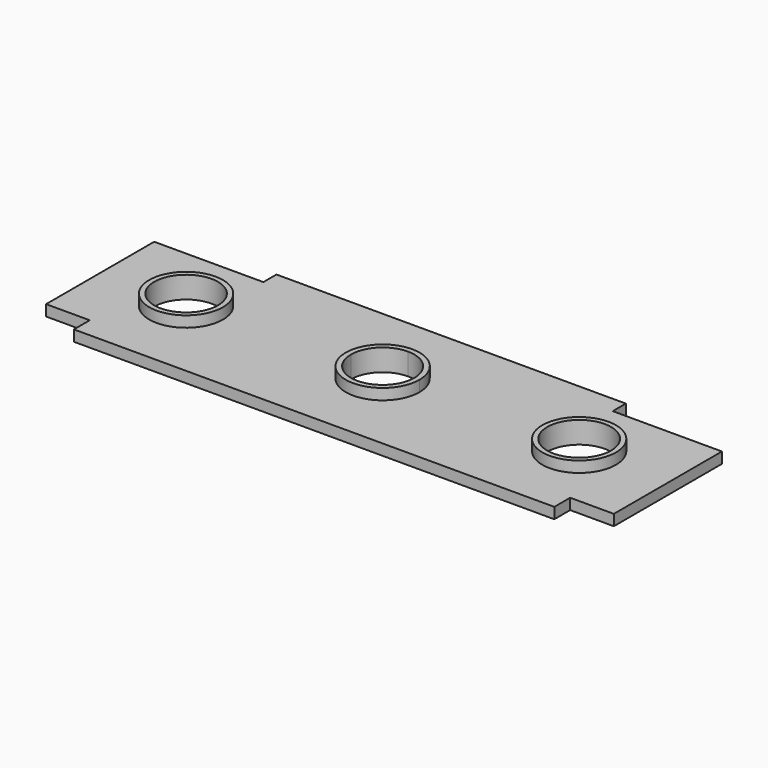
from build123d import *

# Parameters (mm, degrees)
F0_R     = 85.725
F1_DEPTH = 25.4
F0_R_2   = 74.1873427713
F2_DEPTH = 50.8
F3_DEPTH = 50.8
F4_DEPTH = 50.8


with BuildPart() as f1:
    # F0 (on Top) → F1 (new body)
    with BuildSketch(Plane.XY):
        with BuildLine():
            Line((193.6448768675, 306.0437094688), (-60.3551231325, 306.0437094688))
            Line((-60.3551231325, 306.0437094688), (-60.3551231325, -8.2812905312))
            Line((-60.3551231325, -8.2812905312), (41.2448768675, -8.2812905312))
            Line((41.2448768675, -8.2812905312), (41.2448768675, -54.3187905312))
            Line((41.2448768675, -54.3187905312), (600.0448768675, -54.3187905312))
            Line((600.0448768675, -54.3187905312), (600.0448768675, 59.1874594688))
            ThreePointArc((600.0448768675, 59.1874594688), (539.4281480503, 84.2957306516), (514.3198768675, 144.9124594688))
            ThreePointArc((514.3198768675, 144.9124594688), (539.4281480503, 205.5291882861), (600.0448768675, 230.6374594688))
            Line((600.0448768675, 230.6374594688), (600.0448768675, 344.1437094688))
            Line((600.0448768675, 344.1437094688), (193.6448768675, 344.1437094688))
            Line((193.6448768675, 344.1437094688), (193.6448768675, 306.0437094688))
        make_face()
        with Locations((142.8448768675, 144.9124594688)):
            Circle(F0_R, mode=Mode.SUBTRACT)
        with BuildLine():
            Line((1006.4448768675, 344.1437094688), (600.0448768675, 344.1437094688))
            Line((600.0448768675, 344.1437094688), (600.0448768675, 230.6374594688))
            ThreePointArc((600.0448768675, 230.6374594688), (660.6616056848, 205.5291882861), (685.7698768675, 144.9124594688))
            ThreePointArc((685.7698768675, 144.9124594688), (660.6616056848, 84.2957306516), (600.0448768675, 59.1874594688))
            Line((600.0448768675, 59.1874594688), (600.0448768675, -54.3187905312))
            Line((600.0448768675, -54.3187905312), (1158.8448768675, -54.3187905312))
            Line((1158.8448768675, -54.3187905312), (1158.8448768675, -8.2812905312))
            Line((1158.8448768675, -8.2812905312), (1260.4448768675, -8.2812905312))
            Line((1260.4448768675, -8.2812905312), (1260.4448768675, 306.0437094688))
            Line((1260.4448768675, 306.0437094688), (1006.4448768675, 306.0437094688))
            Line((1006.4448768675, 306.0437094688), (1006.4448768675, 344.1437094688))
        make_face()
        with BuildLine():
            ThreePointArc((1142.9698768675, 144.9124594688), (1057.2448768675, 59.1874594688), (971.5198768675, 144.9124594688))
            ThreePointArc((971.5198768675, 144.9124594688), (1057.2448768675, 230.6374594688), (1142.9698768675, 144.9124594688))
        make_face(mode=Mode.SUBTRACT)
    extrude(amount=F1_DEPTH)

    # F0 (on Top) → F2 (join)
    with BuildSketch(Plane.XY):
        with Locations((142.8448768675, 144.9124594688)):
            Circle(F0_R)
        with Locations((142.8448768675, 144.9124594688)):
            Circle(F0_R_2, mode=Mode.SUBTRACT)
    extrude(amount=F2_DEPTH)

    # F0 (on Top) → F3 (join)
    with BuildSketch(Plane.XY):
        with BuildLine():
            Line((600.0448768675, 71.2306225134), (600.0448768675, 59.1874594688))
            ThreePointArc((600.0448768675, 59.1874594688), (660.6616056848, 84.2957306516), (685.7698768675, 144.9124594688))
            Line((685.7698768675, 144.9124594688), (673.726713823, 144.9124594688))
            ThreePointArc((673.726713823, 144.9124594688), (652.145803429, 92.8115329074), (600.0448768675, 71.2306225134))
        make_face()
        with BuildLine():
            ThreePointArc((685.7698768675, 144.9124594688), (660.6616056848, 205.5291882861), (600.0448768675, 230.6374594688))
            Line((600.0448768675, 230.6374594688), (600.0448768675, 218.5942964243))
            ThreePointArc((600.0448768675, 218.5942964243), (652.145803429, 197.0133860303), (673.726713823, 144.9124594688))
            Line((673.726713823, 144.9124594688), (685.7698768675, 144.9124594688))
        make_face()
        with BuildLine():
            Line((600.0448768675, 218.5942964243), (600.0448768675, 230.6374594688))
            ThreePointArc((600.0448768675, 230.6374594688), (539.4281480503, 205.5291882861), (514.3198768675, 144.9124594688))
            Line((514.3198768675, 144.9124594688), (526.3630399121, 144.9124594688))
            ThreePointArc((526.3630399121, 144.9124594688), (547.9439503061, 197.0133860303), (600.0448768675, 218.5942964243))
        make_face()
        with BuildLine():
            ThreePointArc((514.3198768675, 144.9124594688), (539.4281480503, 84.2957306516), (600.0448768675, 59.1874594688))
            Line((600.0448768675, 59.1874594688), (600.0448768675, 71.2306225134))
            ThreePointArc((600.0448768675, 71.2306225134), (547.9439503061, 92.8115329074), (526.3630399121, 144.9124594688))
            Line((526.3630399121, 144.9124594688), (514.3198768675, 144.9124594688))
        make_face()
    extrude(amount=F3_DEPTH)

    # F0 (on Top) → F4 (join)
    with BuildSketch(Plane.XY):
        with BuildLine():
            ThreePointArc((1142.9698768675, 144.9124594688), (1057.2448768675, 230.6374594688), (971.5198768675, 144.9124594688))
            ThreePointArc((971.5198768675, 144.9124594688), (1057.2448768675, 59.1874594688), (1142.9698768675, 144.9124594688))
        make_face()
        with BuildLine():
            ThreePointArc((1131.6165984788, 144.9124594688), (1057.2448768675, 70.5407378575), (982.8731552562, 144.9124594688))
            ThreePointArc((982.8731552562, 144.9124594688), (1057.2448768675, 219.2841810801), (1131.6165984788, 144.9124594688))
        make_face(mode=Mode.SUBTRACT)
    extrude(amount=F4_DEPTH)


solid = f1.part
